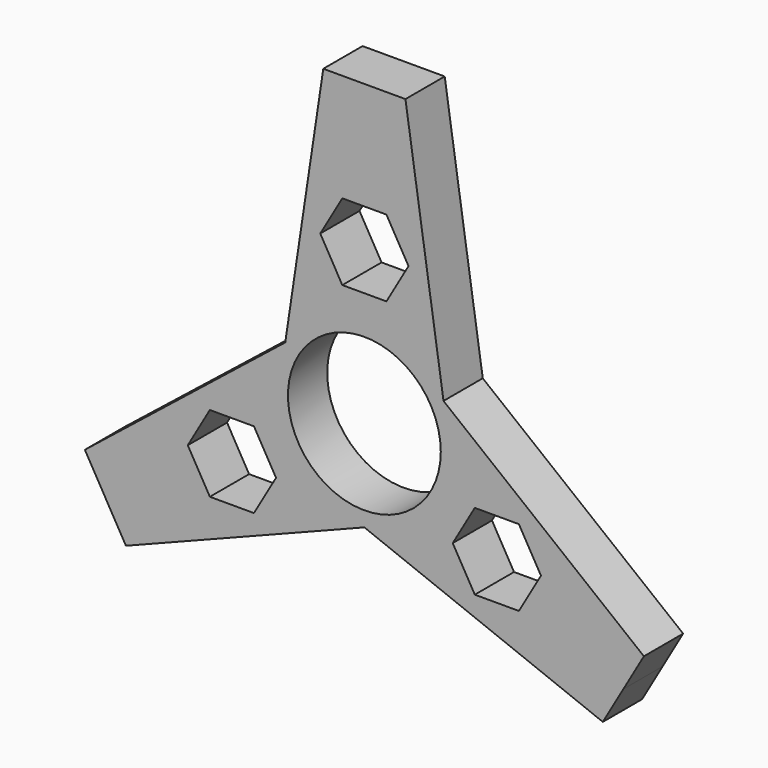
from build123d import *

# Parameters (mm, degrees)
F0_R     = 10.9
F1_DEPTH = 7
F2_DEPTH = 7


with BuildPart() as f1:
    # F0 (on Front) → F1 (new body)
    with BuildSketch(Plane.XZ):
        Polygon((-5.859662, 42.657091), (-11.288807, 6.517596), (-39.871956, -16.253929), (-36.942125, -21.328546), (-34.012293, -26.403162), (0, -13.035191), (34.012293, -26.403162), (36.942125, -21.328546), (39.871956, -16.253929), (11.288807, 6.517596), (5.859662, 42.657091), (0, 42.657091), align=None)
        Polygon((-15.750564, -16.360259), (-22.043682, -16.360259), (-25.190241, -10.910259), (-22.043682, -5.460259), (-15.750564, -5.460259), (-12.604005, -10.910259), align=None, mode=Mode.SUBTRACT)
        Polygon((22.043682, -5.460259), (25.190241, -10.910259), (22.043682, -16.360259), (15.750564, -16.360259), (12.604005, -10.910259), (15.750564, -5.460259), align=None, mode=Mode.SUBTRACT)
        Circle(F0_R, mode=Mode.SUBTRACT)
        Polygon((6.293118, 21.820518), (3.146559, 16.370518), (-3.146559, 16.370518), (-6.293118, 21.820518), (-3.146559, 27.270518), (3.146559, 27.270518), align=None, mode=Mode.SUBTRACT)
    extrude(amount=F1_DEPTH)

    # F0 (on Front) → F2 (join)
    with BuildSketch(Plane.XZ):
        Polygon((-5.859662, 42.657091), (-11.288807, 6.517596), (-39.871956, -16.253929), (-36.942125, -21.328546), (-34.012293, -26.403162), (0, -13.035191), (34.012293, -26.403162), (36.942125, -21.328546), (39.871956, -16.253929), (11.288807, 6.517596), (5.859662, 42.657091), (0, 42.657091), align=None)
        Polygon((-15.750564, -16.360259), (-22.043682, -16.360259), (-25.190241, -10.910259), (-22.043682, -5.460259), (-15.750564, -5.460259), (-12.604005, -10.910259), align=None, mode=Mode.SUBTRACT)
        Polygon((22.043682, -5.460259), (25.190241, -10.910259), (22.043682, -16.360259), (15.750564, -16.360259), (12.604005, -10.910259), (15.750564, -5.460259), align=None, mode=Mode.SUBTRACT)
        Circle(F0_R, mode=Mode.SUBTRACT)
        Polygon((6.293118, 21.820518), (3.146559, 16.370518), (-3.146559, 16.370518), (-6.293118, 21.820518), (-3.146559, 27.270518), (3.146559, 27.270518), align=None, mode=Mode.SUBTRACT)
    extrude(amount=F2_DEPTH)


solid = f1.part
